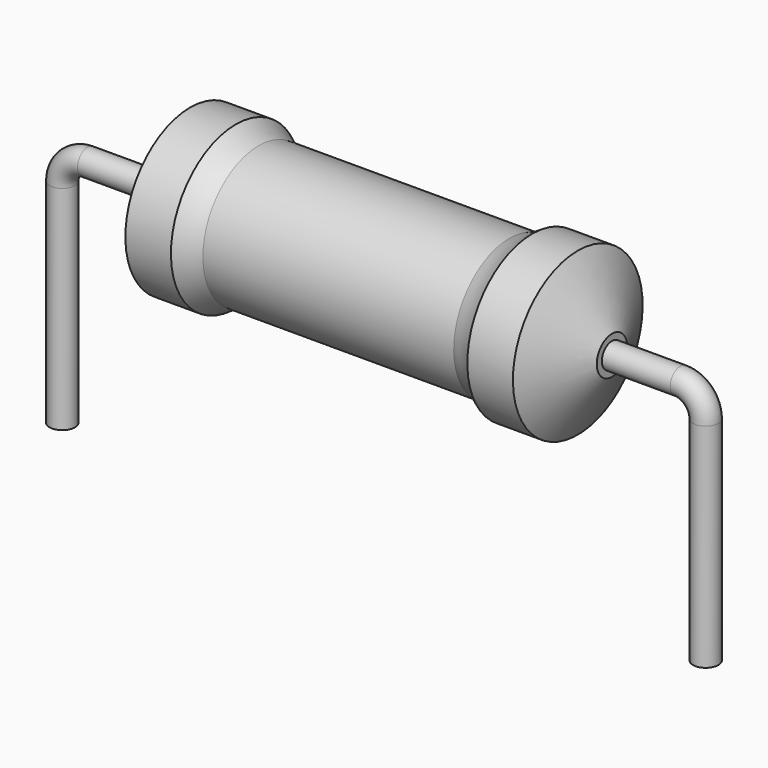
from build123d import *

# Parameters (mm, degrees)
SKETCH_R = 0.25


with BuildPart() as revolution:
    # Sketch002 → Revolution (revolve)
    with BuildSketch(Plane.XZ):
        with BuildLine():
            Line((2.525, 3.3), (3.425, 3.3))
            ThreePointArc((3.425, 3.3), (3.640689, 3.168878), (3.875, 3.075))
            Line((3.875, 3.075), (8.825, 3.075))
            ThreePointArc((8.825, 3.075), (9.059311, 3.168878), (9.275, 3.3))
            Line((9.275, 3.3), (10.175, 3.3))
            ThreePointArc((10.85, 2.075), (10.514078, 2.688369), (10.175, 3.3))
            Line((10.85, 1.7), (10.85, 2.075))
            Line((1.85, 1.7), (10.85, 1.7))
            Line((1.85, 1.7), (1.85, 2.075))
            ThreePointArc((2.525, 3.3), (2.185922, 2.688369), (1.85, 2.075))
        make_face()
    revolve(axis=Axis((1.85, 0, 1.7), (1, 0, 0)))


with BuildPart() as sweep_body:
    # Sweep: sweep along a path in Sketch001
    with BuildLine(Plane.XZ) as sweep_path:
        Line((0, -3), (0, 1.2))
        ThreePointArc((0, 1.2), (0.146445, 1.553552), (0.499995, 1.7))
        Line((0.499995, 1.7), (12.2, 1.7))
        ThreePointArc((12.2, 1.7), (12.553553, 1.553553), (12.7, 1.2))
        Line((12.7, 1.2), (12.7, -3))
    # Sketch → Sweep (sweep)
    with BuildSketch(Plane.XY.offset(-2)):
        Circle(SKETCH_R)
    sweep(path=sweep_path.line)


solid = Compound([revolution.part, sweep_body.part])
